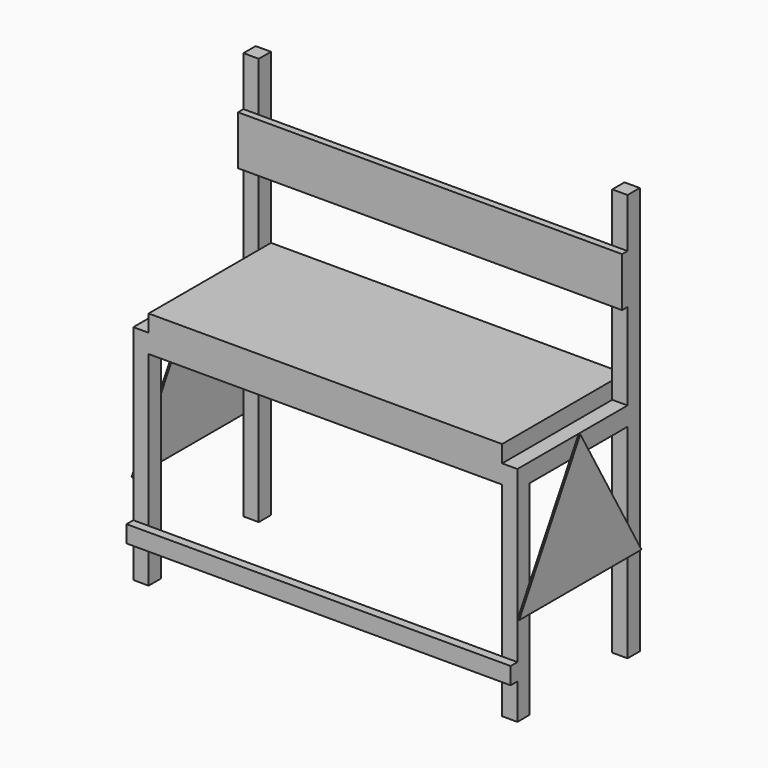
from build123d import *

# Parameters (mm, degrees)
F0_W      = 1130
F0_H      = 450
F1_DEPTH  = 55
F2_W      = 45
F2_H      = 45
F3_DEPTH  = 600
F4_W      = 45
F4_H      = 45
F5_DEPTH  = 600
F6_W      = 45
F6_H      = 45
F7_DEPTH  = 600
F8_W      = 45
F8_H      = 45
F9_DEPTH  = 600
F10_W     = 45
F10_H     = 45
F11_DEPTH = 545
F12_W     = 45
F12_H     = 45
F13_DEPTH = 545
F14_W     = 1130
F14_H     = 145
F15_DEPTH = 20
F16_W     = 1130
F16_H     = 50
F17_DEPTH = 25
F18_W     = 1040
F18_H     = 450
F19_DEPTH = 50
F21_DEPTH = 5
F23_DEPTH = 5


with BuildPart() as f1:
    # F0 (on Top) → F1 (new body)
    with BuildSketch(Plane.XY):
        with Locations((-10.878954, -127.968649)):
            Rectangle(F0_W, F0_H)
    extrude(amount=F1_DEPTH)

    # F2 (on face) → F3 (join)
    with BuildSketch(Plane(origin=(0, 0, 0), x_dir=(1, 0, 0), z_dir=(0, 0, -1))):
        with Locations((531.621046, -74.531351)):
            Rectangle(F2_W, F2_H)
    extrude(amount=F3_DEPTH)

    # F4 (on face) → F5 (join)
    with BuildSketch(Plane(origin=(0, 0, 0), x_dir=(1, 0, 0), z_dir=(0, 0, -1))):
        with Locations((-553.378954, -74.531351)):
            Rectangle(F4_W, F4_H)
    extrude(amount=F5_DEPTH)

    # F6 (on face) → F7 (join)
    with BuildSketch(Plane(origin=(0, 0, 0), x_dir=(1, 0, 0), z_dir=(0, 0, -1))):
        with Locations((531.621046, 330.468649)):
            Rectangle(F6_W, F6_H)
    extrude(amount=F7_DEPTH)

    # F8 (on face) → F9 (join)
    with BuildSketch(Plane(origin=(0, 0, 0), x_dir=(1, 0, 0), z_dir=(0, 0, -1))):
        with Locations((-553.378954, 330.468649)):
            Rectangle(F8_W, F8_H)
    extrude(amount=F9_DEPTH)

    # F10 (on face) → F11 (join)
    with BuildSketch(Plane.XY.offset(55)):
        with Locations((531.621046, 74.531351)):
            Rectangle(F10_W, F10_H)
    extrude(amount=F11_DEPTH)

    # F12 (on face) → F13 (join)
    with BuildSketch(Plane.XY.offset(55)):
        with Locations((-553.378954, 74.531351)):
            Rectangle(F12_W, F12_H)
    extrude(amount=F13_DEPTH)

    # F14 (on face) → F15 (join)
    with BuildSketch(Plane.XZ.offset(-52.031351)):
        with Locations((-10.878954, 382.5)):
            Rectangle(F14_W, F14_H)
    extrude(amount=F15_DEPTH)

    # F16 (on face) → F17 (join)
    with BuildSketch(Plane.XZ.offset(352.968649)):
        with Locations((-10.878954, -470.051563)):
            Rectangle(F16_W, F16_H)
    extrude(amount=F17_DEPTH)

    # F18 (on face) → F19 (join)
    with BuildSketch(Plane.XY.offset(55)):
        with Locations((-10.878954, -127.968649)):
            Rectangle(F18_W, F18_H)
    extrude(amount=F19_DEPTH)

    # F20 (on face) → F21 (join)
    with BuildSketch(Plane.YZ.offset(554.121046)):
        Polygon((-127.968649, 55), (-352.968649, -335), (97.031351, -335), align=None)
    extrude(amount=F21_DEPTH)

    # F22 (on face) → F23 (join)
    with BuildSketch(Plane(origin=(-575.878954, 0, 0), x_dir=(0, -1, 0), z_dir=(-1, 0, 0))):
        Polygon((-97.031351, -335), (352.968649, -335), (127.968649, 55), align=None)
    extrude(amount=F23_DEPTH)


solid = f1.part
